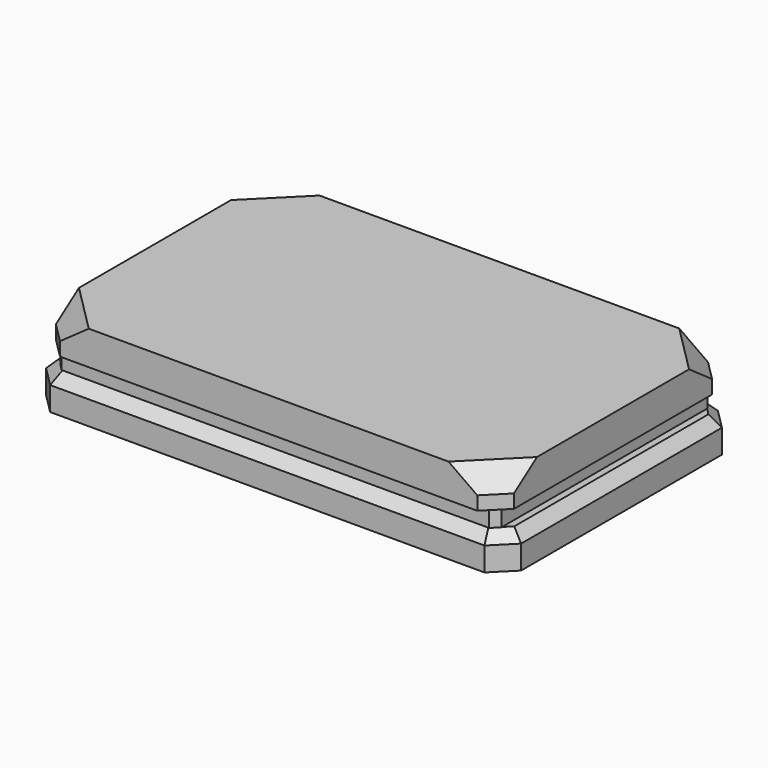
from build123d import *

# Parameters (mm, degrees)
SKETCH_W        = 1400
SKETCH_H        = 860
PAD_DEPTH       = 100
CHAMFER_SIZE    = 60
CHAMFER001_SIZE = 30
SKETCH001_W     = 1300
SKETCH001_H     = 800
PAD001_DEPTH    = 50
CHAMFER002_SIZE = 20
SKETCH002_W     = 1350
SKETCH002_H     = 850
PAD002_DEPTH    = 100
CHAMFER003_SIZE = 60
CHAMFER004_SIZE = 60


with BuildPart() as part:
    # Sketch → Pad (new body)
    with BuildSketch(Plane.XY):
        Rectangle(SKETCH_W, SKETCH_H)
    extrude(amount=PAD_DEPTH)

    # Chamfer
    chamfer_edges = [part.edges().sort_by_distance(p)[0] for p in [
        (-700, 430, 50),
        (700, 430, 50),
        (-700, -430, 50),
        (700, -430, 50),
    ]]
    chamfer(chamfer_edges, length=CHAMFER_SIZE)

    # Chamfer001
    chamfer001_edges = [part.edges().sort_by_distance(p)[0] for p in [
        (-700, 0, 100),
        (-670, 400, 100),
        (0, 430, 100),
        (-670, -400, 100),
        (0, -430, 100),
        (670, -400, 100),
        (700, 0, 100),
        (670, 400, 100),
    ]]
    chamfer(chamfer001_edges, length=CHAMFER001_SIZE)

    # Sketch001 (on Face8 of Chamfer001) → Pad001 (join)
    with BuildSketch(Plane.XY.offset(100)):
        Rectangle(SKETCH001_W, SKETCH001_H)
    extrude(amount=PAD001_DEPTH)

    # Chamfer002
    chamfer002_edges = [part.edges().sort_by_distance(p)[0] for p in [
        (650, 400, 125),
        (650, -400, 125),
        (-650, 400, 125),
        (-650, -400, 125),
    ]]
    chamfer(chamfer002_edges, length=CHAMFER002_SIZE)

    # Sketch002 (on Face5 of Chamfer002) → Pad002 (join)
    with BuildSketch(Plane.XY.offset(150)):
        Rectangle(SKETCH002_W, SKETCH002_H)
    extrude(amount=PAD002_DEPTH)

    # Chamfer003
    chamfer003_edges = [part.edges().sort_by_distance(p)[0] for p in [
        (675, 425, 200),
        (-675, 425, 200),
        (-675, -425, 200),
        (675, -425, 200),
    ]]
    chamfer(chamfer003_edges, length=CHAMFER003_SIZE)

    # Chamfer004
    chamfer004_edges = [part.edges().sort_by_distance(p)[0] for p in [
        (645, 395, 250),
        (645, -395, 250),
        (-645, -395, 250),
        (-645, 395, 250),
    ]]
    chamfer(chamfer004_edges, length=CHAMFER004_SIZE)


solid = part.part
